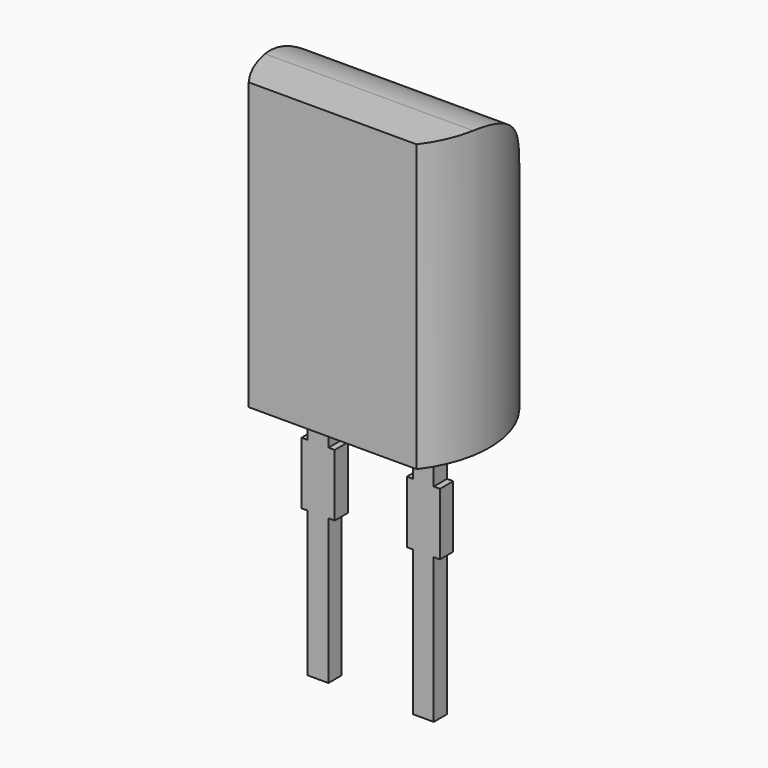
from build123d import *

# Parameters (mm, degrees)
PAD001_DEPTH = 0.2
PAD_DEPTH    = 6.9
FILLET_R     = 2


with BuildPart() as pad001:
    # Sketch002 → Pad001 (new body, symmetric)
    with BuildSketch(Plane.XZ):
        Polygon((-0.25, 3), (0.25, 3), (0.25, 2), (0.4, 2), (0.4, 0.5), (0.25, 0.5), (0.25, -3), (-0.25, -3), (-0.25, 0.5), (-0.4, 0.5), (-0.4, 2), (-0.25, 2), align=None)
        Polygon((2.29, 3), (2.79, 3), (2.79, 2), (2.94, 2), (2.94, 0.5), (2.79, 0.5), (2.79, -3), (2.29, -3), (2.29, 0.5), (2.14, 0.5), (2.14, 2), (2.29, 2), align=None)
    extrude(amount=PAD001_DEPTH, both=True)


with BuildPart() as obj1:
    # Sketch → Pad (new body)
    with BuildSketch(Plane.XY.offset(3)):
        with BuildLine():
            Line((-0.754846, -1.35), (3.294846, -1.35))
            ThreePointArc((3.294846, -1.35), (3.82, 0.2), (3.294846, 1.75))
            Line((3.294846, 1.75), (-0.754846, 1.75))
            ThreePointArc((-0.754846, 1.75), (-1.28, 0.2), (-0.754846, -1.35))
        make_face()
    extrude(amount=PAD_DEPTH)

    # Fillet
    fillet_edges = [obj1.edges().sort_by_distance(p)[0] for p in [
        (1.27, 1.75, 9.9),
    ]]
    fillet(fillet_edges, radius=FILLET_R)

    add(pad001.part)


solid = obj1.part
